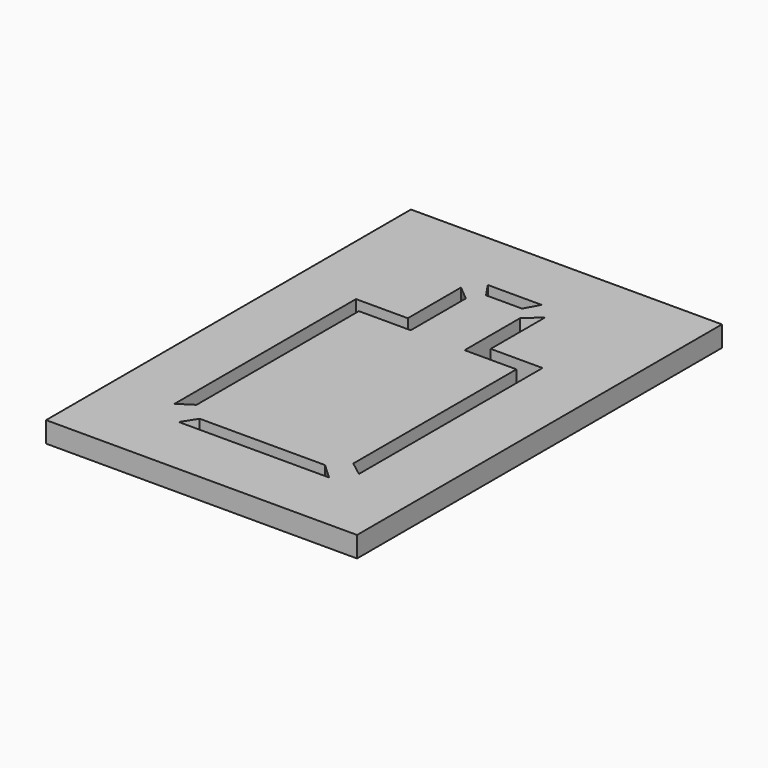
from build123d import *

# Parameters (mm, degrees)
F1_W     = 150
F1_H     = 220
F2_DEPTH = 10
F3_DEPTH = 25


with BuildPart() as f2:
    # F1 (on Top) → F2 (new body)
    with BuildSketch(Plane.XY):
        with Locations((45.525713, 80)):
            Rectangle(F1_W, F1_H)
    extrude(amount=F2_DEPTH)

    # F0 (on Top) → F3 (cut)
    with BuildSketch(Plane.XY):
        Polygon((14.999021, 7), (10.525713, 0), (83.010264, 0), (75.500965, 7), align=None)
        Polygon((25, 120), (0, 120), (0, 10.580182), (7, 15.109896), (7, 113), (32, 113), (32, 146.241054), (25, 152.102575), align=None)
        Polygon((83, 14.64067), (90, 9.280561), (90, 120), (65, 120), (65, 152.879447), (58, 146.40218), (58, 113), (83, 113), align=None)
        Polygon((57.524528, 160), (31.603869, 160), (36.329959, 153), (53.748887, 153), align=None)
    extrude(amount=F3_DEPTH, mode=Mode.SUBTRACT)


solid = f2.part
